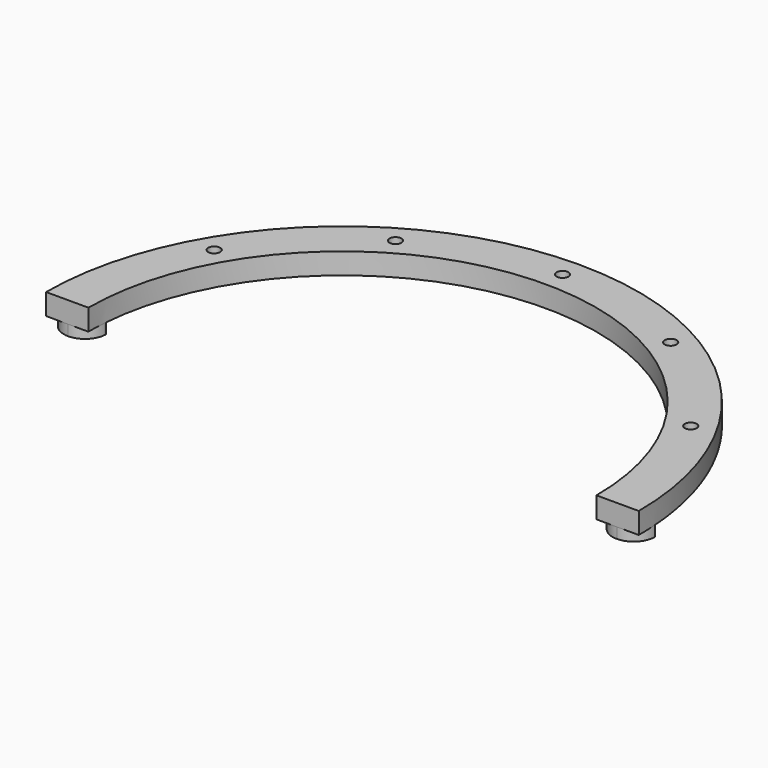
from build123d import *

# Parameters (mm, degrees)
F1_DEPTH       = 12.7
F3_DEPTH       = 6.35
F5_D           = 7.1374
F5_CSINK_D     = 13.4874
F5_CSINK_ANGLE = 82


with BuildPart() as f1:
    # F0 (on Top) → F1 (new body)
    with BuildSketch(Plane.XY):
        with BuildLine():
            Line((-177.8, 0), (-152.4, 0))
            ThreePointArc((-152.4, 0), (0, 152.4), (152.4, 0))
            Line((152.4, 0), (177.8, 0))
            ThreePointArc((177.8, 0), (0, 177.8), (-177.8, 0))
        make_face()
    extrude(amount=F1_DEPTH)

    # F2 (on face) → F3 (join)
    with BuildSketch(Plane(origin=(0, 0, 0), x_dir=(1, 0, 0), z_dir=(0, 0, -1))):
        with BuildLine():
            Line((-164.6108137396, -12.7), (-151.9108137396, -12.7))
            ThreePointArc((-151.9108137396, -12.7), (-151.9202246619, -12.2111760422), (-151.9484434816, -11.7230765386))
            ThreePointArc((-151.9484434816, -11.7230765386), (-155.9828628767, -3.3807476744), (-164.6108137281, 0))
            ThreePointArc((-164.6108137281, 0), (-173.5910698566, -3.7197438749), (-177.3108137396, -12.7))
            Line((-177.3108137396, -12.7), (-164.6108137396, -12.7))
        make_face()
        with BuildLine():
            ThreePointArc((151.9484434411, -11.7230770637), (151.9202246518, -12.2111763053), (151.9108137396, -12.7))
            Line((151.9108137396, -12.7), (177.3108137396, -12.7))
            ThreePointArc((177.3108137396, -12.7), (173.5910698566, -3.7197438749), (164.6108137281, 0))
            ThreePointArc((164.6108137281, 0), (155.9828626834, -3.3807478534), (151.9484434411, -11.7230770637))
        make_face()
    extrude(amount=F3_DEPTH)

    # F5 (through all)
    with Locations(Plane(origin=(0, 0, 0), x_dir=(1, 0, 0), z_dir=(0, 0, -1))):
        with Locations((-142.9807941648, -82.55), (-82.55, -142.9807941648), (0, -165.1), (82.55, -142.9807941648), (142.9807941648, -82.55)):
            CounterSinkHole(F5_D / 2, F5_CSINK_D / 2, counter_sink_angle=F5_CSINK_ANGLE)


solid = f1.part
